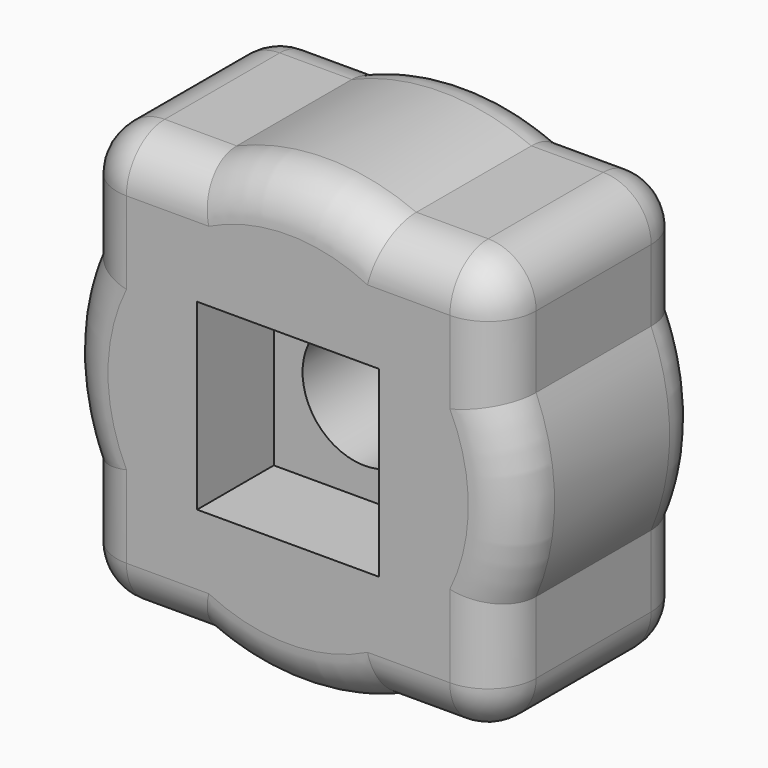
from build123d import *

# Parameters (mm, degrees)
F0_W     = 19.304
F0_H     = 19.4056
F1_DEPTH = 25.4
F2_DEPTH = 15.24
F3_R     = 6.604
F4_DEPTH = 127
F5_R     = 5.08
F6_R     = 5.08


with BuildPart() as f1:
    # F0 (on Front) → F1 (new body)
    with BuildSketch(Plane.XZ):
        with BuildLine():
            Line((-22.225, -9.525), (-22.225, -22.225))
            Line((-22.225, -22.225), (-9.525, -22.225))
            ThreePointArc((-9.525, -22.225), (0, -24.18008), (9.525, -22.225))
            Line((9.525, -22.225), (22.225, -22.225))
            Line((22.225, -22.225), (22.225, -9.525))
            ThreePointArc((22.225, -9.525), (24.18008, 0), (22.225, 9.525))
            Line((22.225, 9.525), (22.225, 22.225))
            Line((22.225, 22.225), (9.525, 22.225))
            ThreePointArc((9.525, 22.225), (0, 24.18008), (-9.525, 22.225))
            Line((-9.525, 22.225), (-22.225, 22.225))
            Line((-22.225, 22.225), (-22.225, 9.525))
            ThreePointArc((-22.225, 9.525), (-24.18008, 0), (-22.225, -9.525))
        make_face()
        Rectangle(F0_W, F0_H, mode=Mode.SUBTRACT)
    extrude(amount=F1_DEPTH)

    # F0 (on Front) → F2 (join)
    with BuildSketch(Plane.XZ):
        Rectangle(F0_W, F0_H)
    extrude(amount=F2_DEPTH)

    # F3 (on face) → F4 (cut)
    with BuildSketch(Plane.XZ.offset(15.24)):
        Circle(F3_R)
    extrude(amount=-F4_DEPTH, mode=Mode.SUBTRACT)

    # F5
    f5_edges = [f1.edges().sort_by_distance(p)[0] for p in [
        (-22.225, -12.7, -22.225),
        (-22.225, -12.7, 22.225),
        (22.225, -12.7, 22.225),
        (22.225, -12.7, -22.225),
    ]]
    fillet(f5_edges, radius=F5_R)

    # F6
    f6_edges = [f1.edges().sort_by_distance(p)[0] for p in [
        (-13.335, -25.4, -22.225),
        (-13.335, 0, -22.225),
        (-13.335, 0, 22.225),
        (-22.225, -25.4, 13.335),
        (22.225, -25.4, 13.335),
        (22.225, -25.4, -13.335),
        (13.335, 0, -22.225),
        (13.335, 0, 22.225),
        (0, -25.4, -24.18008),
        (0, 0, -24.18008),
        (0, 0, 24.18008),
        (0, -25.4, 24.18008),
        (24.18008, -25.4, 0),
        (24.18008, 0, 0),
        (-24.18008, 0, 0),
        (-24.18008, -25.4, 0),
    ]]
    fillet(f6_edges, radius=F6_R)


solid = f1.part
